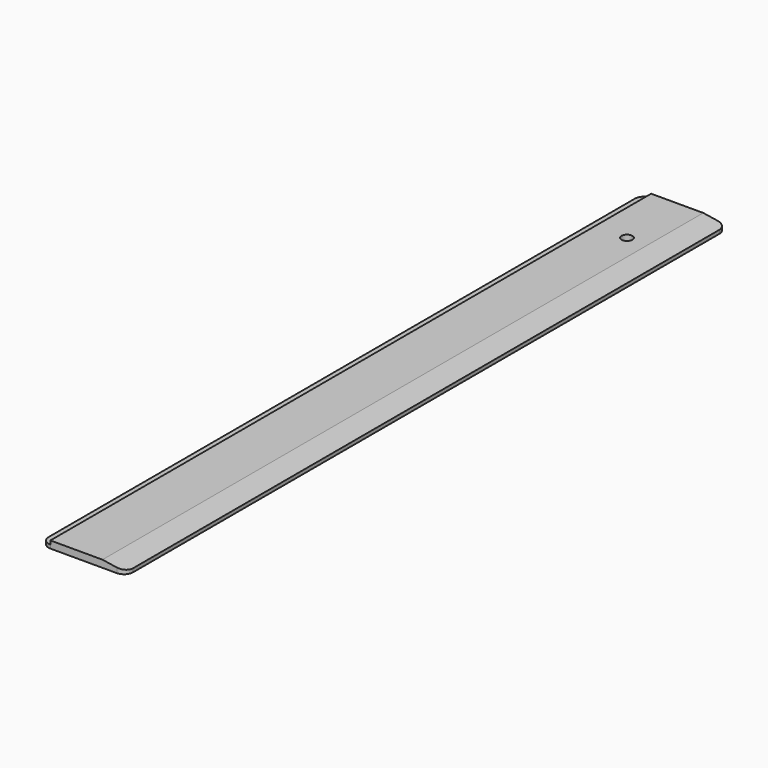
from build123d import *

# Parameters (mm, degrees)
F1_DEPTH = 104.5
F2_R     = 1.5
F3_DEPTH = 2
F4_R     = 2.5


with BuildPart() as f1:
    # F0 (on Front) → F1 (new body, symmetric)
    with BuildSketch(Plane.XZ):
        Polygon((-11.3693717867, -0.2710307762), (-11.3693717867, -1.2710307762), (12.1306282133, -1.2710307762), (12.1306282133, -0.2710307762), (5.6306282133, 0.7289692238), (-8.8693717867, 0.7289692238), (-8.8693717867, -0.2710307762), align=None)
    extrude(amount=F1_DEPTH, both=True)

    # F2 (on face) → F3 (cut)
    with BuildSketch(Plane.XY.offset(0.7289692238)):
        with Locations((0, 85)):
            Circle(F2_R)
    extrude(amount=-F3_DEPTH, mode=Mode.SUBTRACT)

    # F4
    f4_edges = [f1.edges().sort_by_distance(p)[0] for p in [
        (12.130628, 104.5, -0.771031),
        (-11.369372, 104.5, -0.771031),
        (12.130628, -104.5, -0.771031),
        (-11.369372, -104.5, -0.771031),
    ]]
    fillet(f4_edges, radius=F4_R)


solid = f1.part
